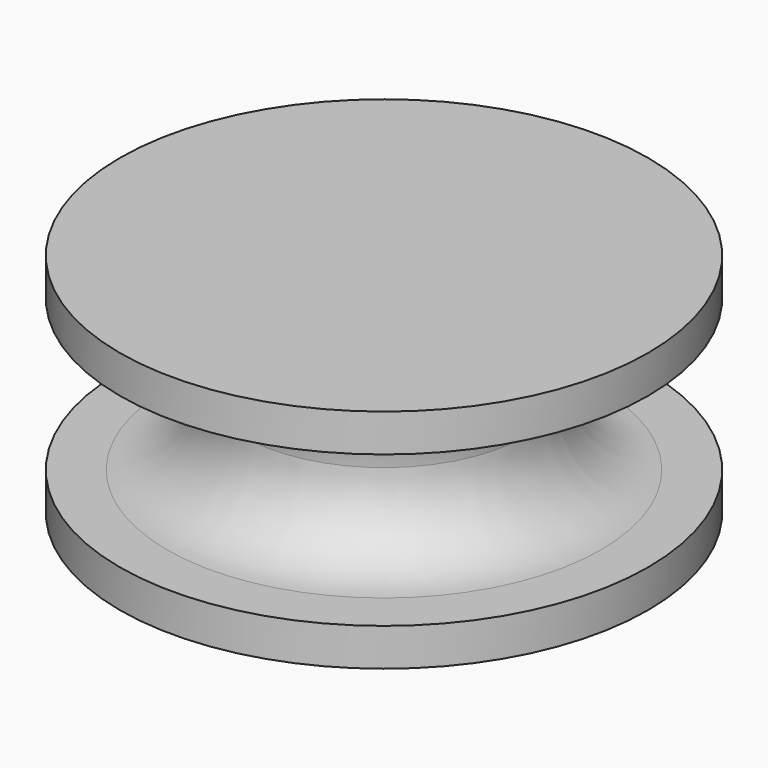
from build123d import *


with BuildPart() as f1:
    # F0 (on Front) → F1 (revolve)
    with BuildSketch(Plane.XZ):
        with BuildLine():
            Line((1.4, 0.6), (0, 0.6))
            Line((0, 0.6), (0, 0))
            Line((0, 0), (0, -0.6))
            Line((0, -0.6), (1.4, -0.6))
            Line((1.4, -0.6), (1.4, -0.4))
            Line((1.4, -0.4), (1.15, -0.4))
            ThreePointArc((1.15, -0.4), (0.867157, -0.282843), (0.75, 0))
            ThreePointArc((0.75, 0), (0.867157, 0.282843), (1.15, 0.4))
            Line((1.15, 0.4), (1.4, 0.4))
            Line((1.4, 0.4), (1.4, 0.6))
        make_face()
    revolve(axis=Axis((0, 0, 0.3), (0, 0, 1)))


solid = f1.part
